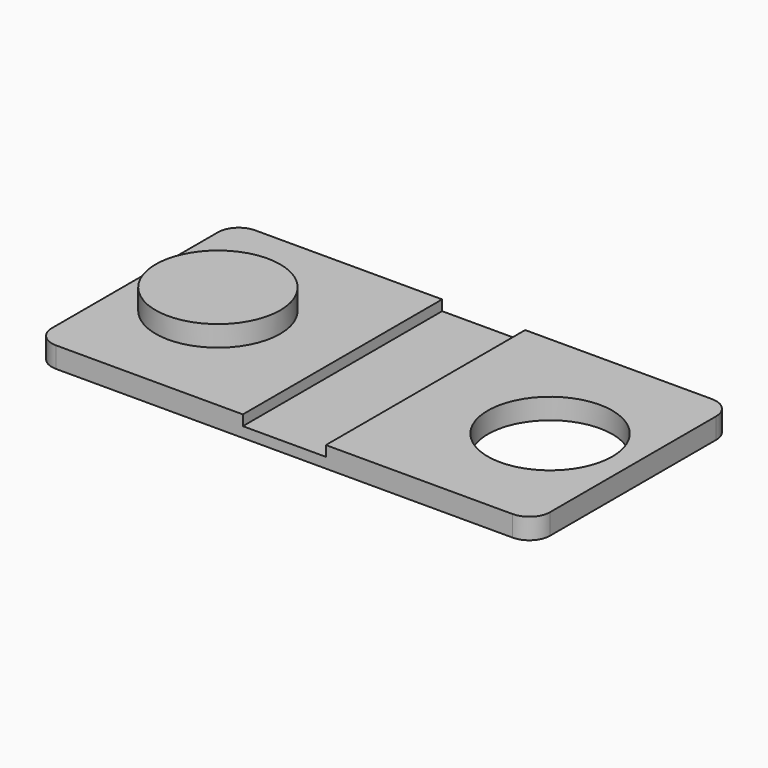
from build123d import *

# Parameters (mm, degrees)
F0_W     = 120
F0_H     = 60
F0_R     = 15
F1_DEPTH = 5
F2_R     = 5
F3_R     = 15
F4_DEPTH = 5
F5_W     = 20
F5_H     = 60
F6_DEPTH = 2.5


with BuildPart() as f1:
    # F0 (on Top) → F1 (new body)
    with BuildSketch(Plane.XY):
        Rectangle(F0_W, F0_H)
        with Locations((40, 0)):
            Circle(F0_R, mode=Mode.SUBTRACT)
    extrude(amount=F1_DEPTH)

    # F2
    f2_edges = [f1.edges().sort_by_distance(p)[0] for p in [
        (60, 30, 2.5),
        (60, -30, 2.5),
        (-60, 30, 2.5),
        (-60, -30, 2.5),
    ]]
    fillet(f2_edges, radius=F2_R)

    # F3 (on face) → F4 (join)
    with BuildSketch(Plane.XY.offset(5)):
        with Locations((-40, 0)):
            Circle(F3_R)
    extrude(amount=F4_DEPTH)

    # F5 (on face) → F6 (cut)
    with BuildSketch(Plane.XY.offset(5)):
        Rectangle(F5_W, F5_H)
    extrude(amount=-F6_DEPTH, mode=Mode.SUBTRACT)


solid = f1.part
